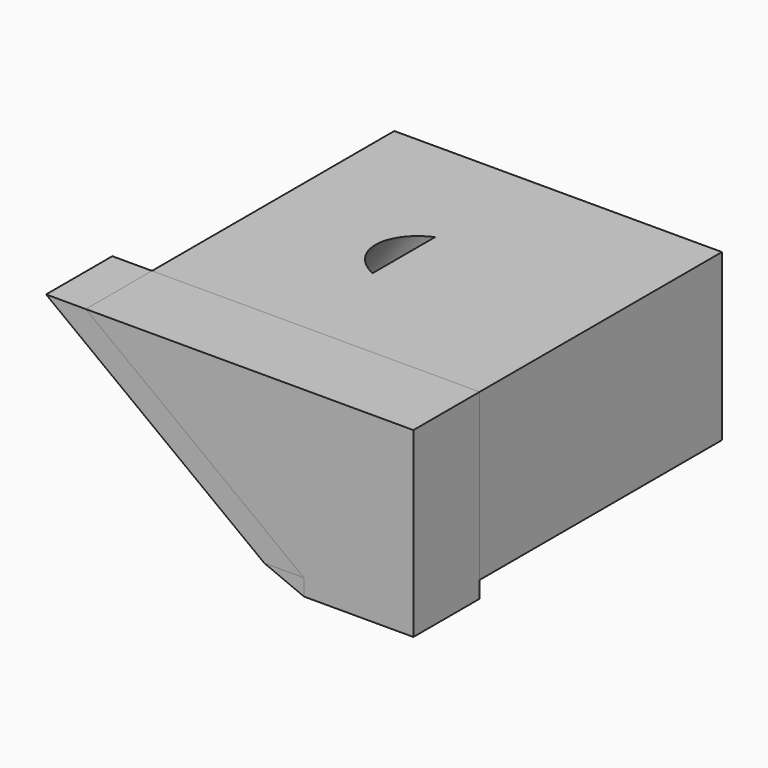
from build123d import *

# Parameters (mm, degrees)
F0_W      = 133.2719624043
F0_H      = 92.9137095809
F1_DEPTH  = 50.8
F3_DEPTH  = 127
F5_DEPTH  = 25.4
F6_DEPTH  = 25.4
F7_R      = 13.9069299175
F8_DEPTH  = 25.4
F9_W      = 33.5661992431
F9_H      = 25.4
F10_DEPTH = 5.08
F12_DEPTH = 25.4


with BuildPart() as f1:
    # F0 (on Top) → F1 (new body)
    with BuildSketch(Plane.XY):
        with Locations((4.0084272623, 2.4075768888)):
            Rectangle(F0_W, F0_H)
    extrude(amount=F1_DEPTH)

    # F2 (on face) → F3 (cut)
    with BuildSketch(Plane.XZ.offset(44.0492779016)):
        Polygon((37.0782092214, 0), (-29.8720244318, 50.8), (-62.6275539398, 50.8), (-62.6275539398, 0), align=None)
    extrude(amount=-F3_DEPTH, mode=Mode.SUBTRACT)


with BuildPart() as f5:
    # F4 (on face) → F5 (new body)
    with BuildSketch(Plane.XZ.offset(44.0492779016)):
        Polygon((37.0782092214, 0), (-29.8720244318, 50.8), (-42.048888281, 50.8), (24.9013453722, 0), align=None)
    extrude(amount=F5_DEPTH)


with BuildPart() as f6:
    # F6 (new): a face of the model
    f6_faces = [f1.part.faces().sort_by_distance(p)[0] for p in [
        (34.3379473054, -44.0492779016, 29.6275819213),
    ]]
    extrude(f6_faces, amount=F6_DEPTH)

    # F9 (on face) → F10 (join)
    with BuildSketch(Plane(origin=(0, 0, 0), x_dir=(1, 0, 0), z_dir=(0, 0, -1))):
        with Locations((53.8613088429, 56.7492779016)):
            Rectangle(F9_W, F9_H)
    extrude(amount=F10_DEPTH)


with BuildPart() as f1_1:
    add(f1.part)

    # F7 (on face) → F8 (cut)
    with BuildSketch(Plane(origin=(13.5474819448, 0, 17.8544701105), x_dir=(0.7966330129, 0, -0.6044632684), z_dir=(-0.6044632684, 0, -0.7966330129))):
        with Locations((-14.0245705843, 0)):
            Circle(F7_R)
    extrude(amount=-F8_DEPTH, mode=Mode.SUBTRACT)


with BuildPart() as f12:
    # F11 (on face) → F12 (new body)
    with BuildSketch(Plane.XZ.offset(69.4492779016)):
        Polygon((37.0782092214, 0), (24.8976163566, 0), (37.0782092214, -5.08), align=None)
    extrude(amount=-F12_DEPTH)


solid = Compound([f5.part, f6.part, f1_1.part, f12.part])
